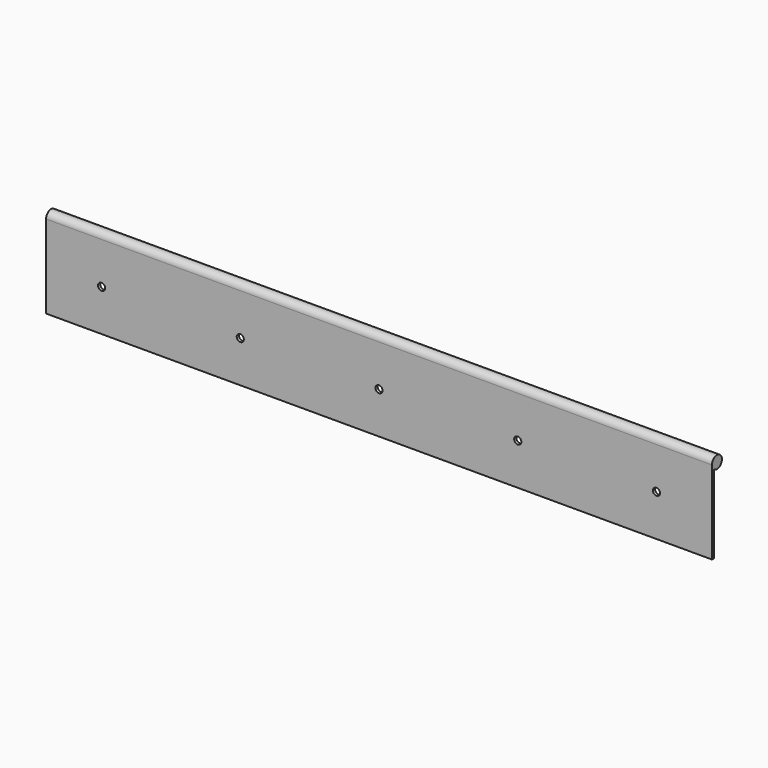
from build123d import *

# Parameters (mm, degrees)
F1_DEPTH = 304.8
F3_D     = 3.2639


with BuildPart() as f1:
    # F0 (on Right) → F1 (new body)
    with BuildSketch(Plane.YZ):
        with BuildLine():
            Line((0, 38.1), (0, 0))
            Line((0, 0), (1.27, 0))
            Line((1.27, 0), (1.27, 35.7240475594))
            ThreePointArc((1.27, 35.7240475594), (5.3775781238, 39.4470384182), (0, 38.1))
        make_face()
    extrude(amount=F1_DEPTH)

    # F3 (through all)
    with Locations(Plane.XZ):
        with Locations((25.4, 19.05), (88.9, 19.05), (152.4, 19.05), (215.9, 19.05), (279.4, 19.05)):
            Hole(F3_D / 2)


solid = f1.part
